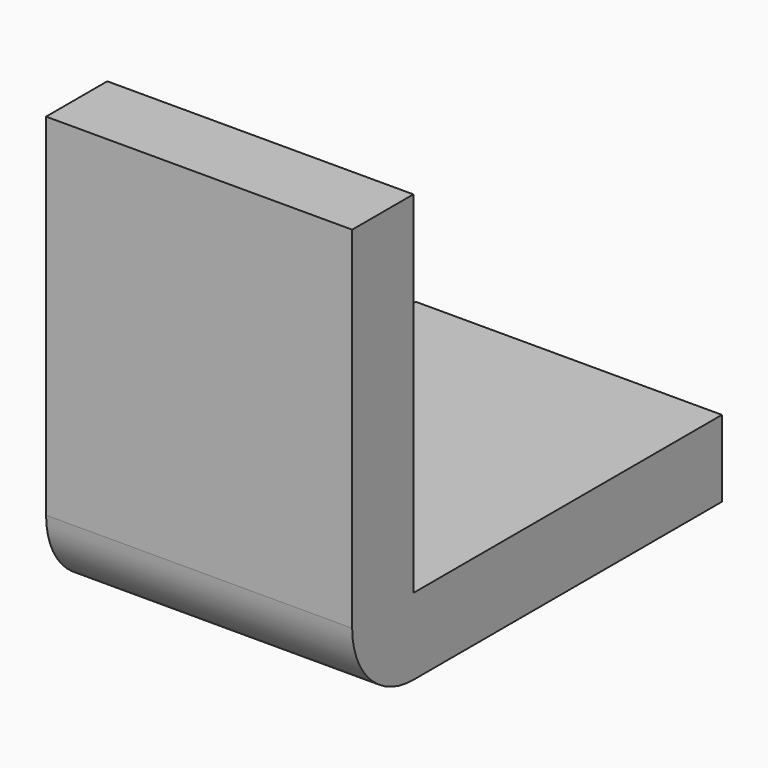
from build123d import *

# Parameters (mm, degrees)
F1_DEPTH = 25.4


with BuildPart() as f1:
    # F0 (on Right) → F1 (new body)
    with BuildSketch(Plane.YZ):
        with BuildLine():
            Line((-37.447304, 15.018271), (-37.447304, 44.136662))
            Line((-37.447304, 44.136662), (-43.797303, 44.136662))
            Line((-43.797303, 44.136662), (-43.797303, 15.018271))
            ThreePointArc((-43.797303, 15.018271), (-41.937432, 10.528143), (-37.447304, 8.668271))
            Line((-37.447304, 8.668271), (-5.443305, 8.668271))
            Line((-5.443305, 8.668271), (-5.443305, 15.018271))
            Line((-5.443305, 15.018271), (-37.447304, 15.018271))
        make_face()
    extrude(amount=F1_DEPTH)


solid = f1.part
